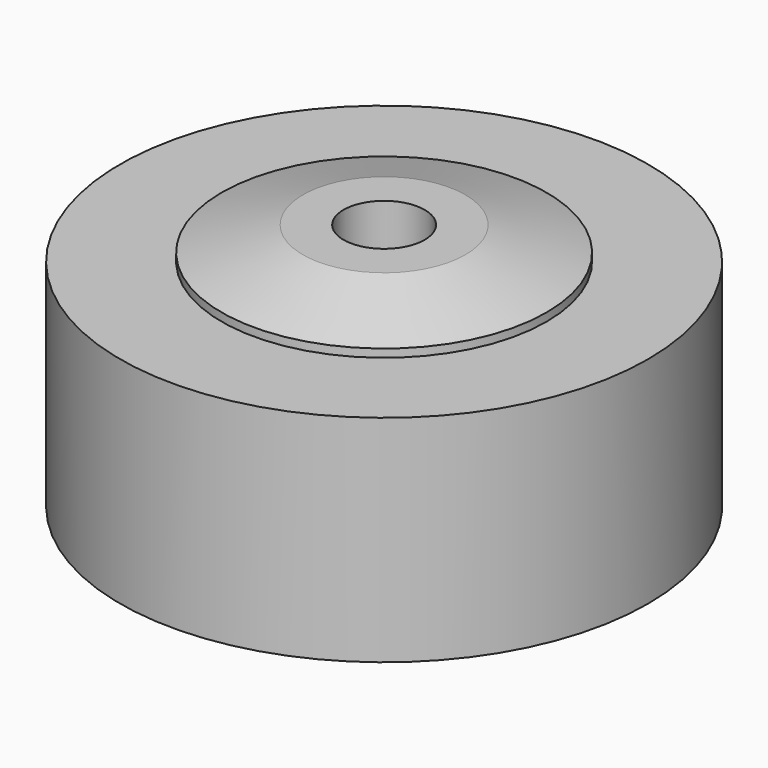
from build123d import *

# Parameters (mm, degrees)
F0_R       = 6.5
F1_DEPTH   = 5.3
F2_R       = 4
F3_DEPTH   = 0.8
F4_R       = 4
F5_DEPTH   = 0.8
F6_SIZE2   = 0.6
F6_SIZE    = 2
F6_2_SIZE2 = 0.6
F6_2_SIZE  = 2
F7_R       = 1
F8_DEPTH   = 6.9


with BuildPart() as f1:
    # F0 (on Top) → F1 (new body)
    with BuildSketch(Plane.XY):
        Circle(F0_R)
    extrude(amount=F1_DEPTH)

    # F2 (on face) → F3 (join)
    with BuildSketch(Plane.XY.offset(5.3)):
        Circle(F2_R)
    extrude(amount=F3_DEPTH)

    # F4 (on face) → F5 (join)
    with BuildSketch(Plane(origin=(0, 0, 0), x_dir=(1, 0, 0), z_dir=(0, 0, -1))):
        Circle(F4_R)
    extrude(amount=F5_DEPTH)

    # F6
    f6_edges = [f1.edges().sort_by_distance(p)[0] for p in [
        (-4, 0, -0.8),
    ]]
    f6_side = f1.faces().sort_by_distance((0, 0, -0.8))[0]
    chamfer(f6_edges, length=F6_SIZE, length2=F6_SIZE2, reference=f6_side)

    # F6#2
    f6_2_edges = [f1.edges().sort_by_distance(p)[0] for p in [
        (-4, 0, 6.1),
    ]]
    f6_2_side = f1.faces().sort_by_distance((0, 0, 6.1))[0]
    chamfer(f6_2_edges, length=F6_2_SIZE, length2=F6_2_SIZE2, reference=f6_2_side)

    # F7 (on face) → F8 (cut, through all)
    with BuildSketch(Plane.XY.offset(6.1)):
        Circle(F7_R)
    extrude(amount=-F8_DEPTH, mode=Mode.SUBTRACT)


solid = f1.part
